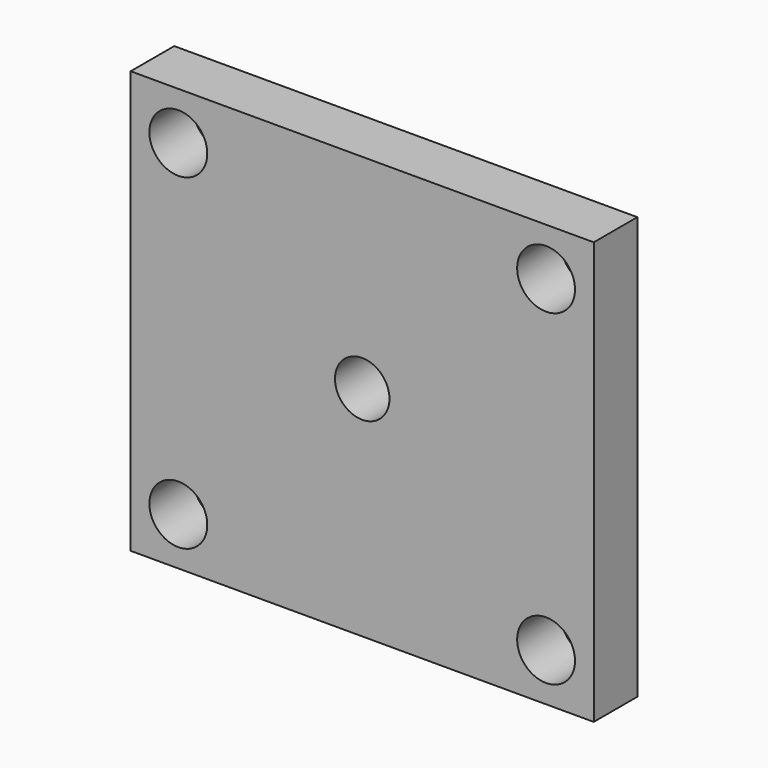
from build123d import *

# Parameters (mm, degrees)
F0_W     = 107.95
F0_H     = 98.425
F0_R     = 6.35
F1_DEPTH = 12.7
F2_D     = 13.49248


with BuildPart() as f1:
    # F0 (on Front) → F1 (new body)
    with BuildSketch(Plane.XZ):
        Rectangle(F0_W, F0_H)
        with Locations((0, 1.5875)):
            Circle(F0_R, mode=Mode.SUBTRACT)
    extrude(amount=F1_DEPTH)

    # F2 (through all)
    with Locations(Plane(origin=(0, 0, 0), x_dir=(1, 0, 0), z_dir=(0, 1, 0))):
        with Locations((-42.8625, -38.1), (42.8625, -38.1), (42.8625, 38.1), (-42.8625, 38.1)):
            Hole(F2_D / 2)


solid = f1.part
